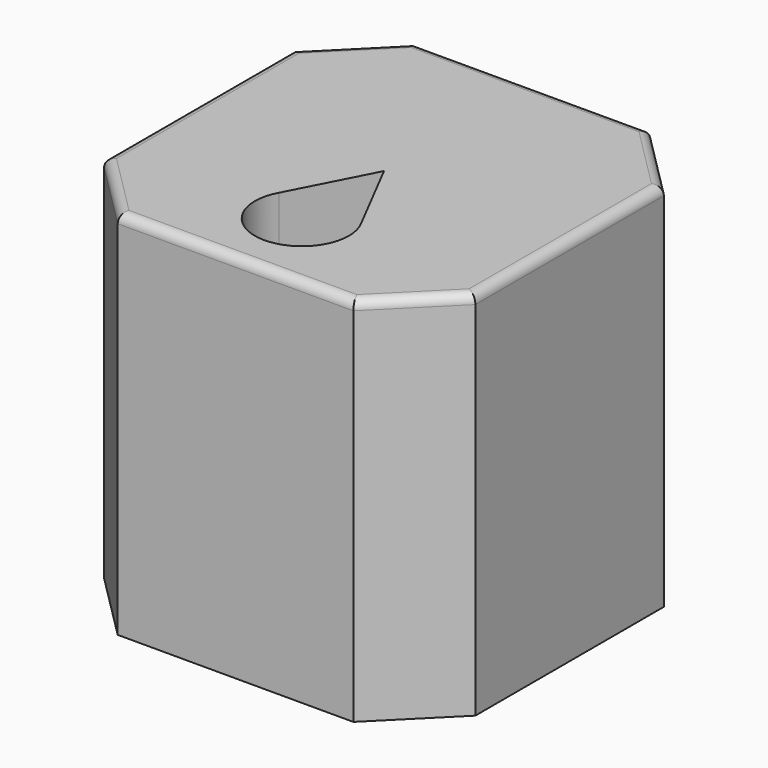
from build123d import *

# Parameters (mm, degrees)
F1_DEPTH = 80
F2_R     = 2
F4_DEPTH = 25


with BuildPart() as f1:
    # F0 (on Top) → F1 (new body)
    with BuildSketch(Plane.XY):
        Polygon((25.391311, 40), (0, 40), (-25.391311, 40), (-40, 25.391311), (-40, 0), (-40, -25.391311), (-25.391311, -40), (0, -40), (25.391311, -40), (40, -25.391311), (40, 0), (40, 25.391311), align=None)
    extrude(amount=F1_DEPTH)

    # F2
    f2_edges = [f1.edges().sort_by_distance(p)[0] for p in [
        (32.695656, 32.695656, 80),
        (0, 40, 80),
        (-32.695656, 32.695656, 80),
        (-40, 0, 80),
        (-32.695656, -32.695656, 80),
        (0, -40, 80),
        (32.695656, -32.695656, 80),
        (40, 0, 80),
    ]]
    fillet(f2_edges, radius=F2_R)

    # F3 (on face) → F4 (cut)
    with BuildSketch(Plane.XY.offset(80)):
        with BuildLine():
            ThreePointArc((-8.873674, -17.226376), (0.143915, -11.989261), (9.009154, -17.480326))
            Line((9.009154, -17.480326), (0, 0))
            Line((0, 0), (-8.873674, -17.226376))
        make_face()
        with BuildLine():
            ThreePointArc((-8.873674, -17.226376), (-2.528532, -31.938364), (10.135299, -22.123538))
            ThreePointArc((10.135299, -22.123538), (9.84974, -19.734625), (9.009154, -17.480326))
            ThreePointArc((9.009154, -17.480326), (0.143915, -11.989261), (-8.873674, -17.226376))
        make_face()
    extrude(amount=-F4_DEPTH, mode=Mode.SUBTRACT)


solid = f1.part
